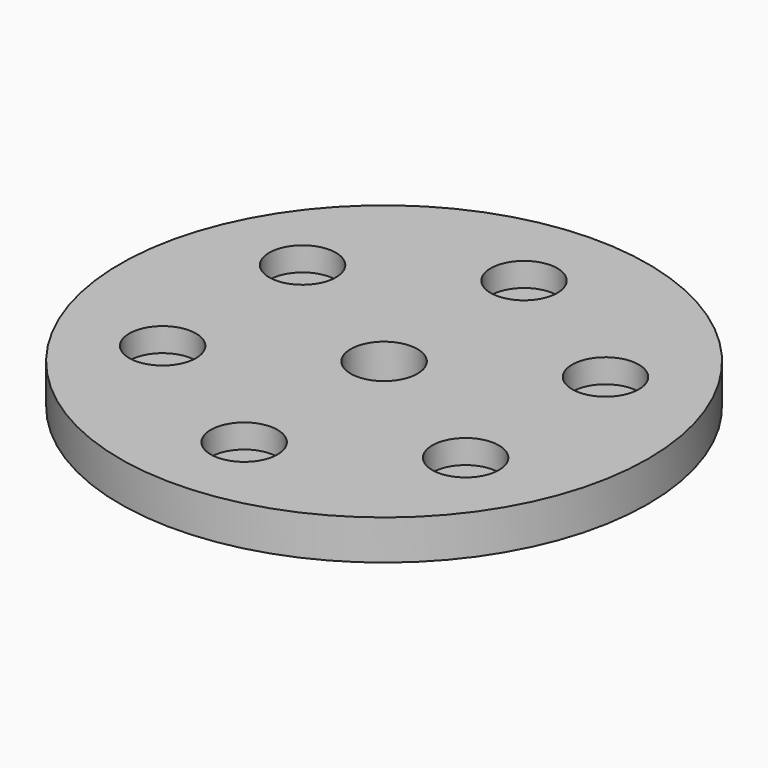
from build123d import *

# Parameters (mm, degrees)
F0_R     = 8.3
F1_DEPTH = 1.25
F2_R     = 1.05
F3_DEPTH = 25
F4_R     = 1.05
F5_DEPTH = 0.75


with BuildPart() as f1:
    # F0 (on Top) → F1 (new body)
    with BuildSketch(Plane.XY):
        Circle(F0_R)
    extrude(amount=F1_DEPTH)

    # F2 (on face) → F3 (cut)
    with BuildSketch(Plane.XY.offset(1.25)):
        Circle(F2_R)
    extrude(amount=-F3_DEPTH, mode=Mode.SUBTRACT)

    # F4 (on face) → F5 (cut)
    with BuildSketch(Plane.XY.offset(1.25)):
        with Locations((0, 5.5)):
            Circle(F4_R)
        with Locations((-4.76314, 2.75)):
            Circle(F4_R)
        with Locations((-4.76314, -2.75)):
            Circle(F4_R)
        with Locations((0, -5.5)):
            Circle(F4_R)
        with Locations((4.76314, -2.75)):
            Circle(F4_R)
        with Locations((4.76314, 2.75)):
            Circle(F4_R)
    extrude(amount=-F5_DEPTH, mode=Mode.SUBTRACT)


solid = f1.part
